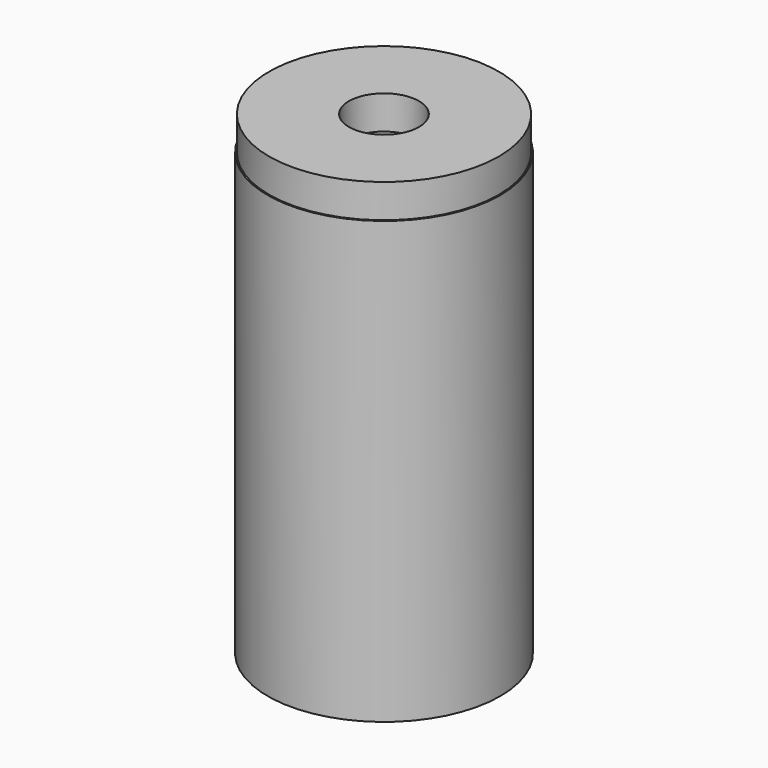
from build123d import *

# Parameters (mm, degrees)
F0_R     = 20.5
F1_DEPTH = 6
F2_R     = 20.75
F2_R_2   = 20.5
F3_DEPTH = 38.66
F5_DEPTH = 40
F6_D     = 12.5


with BuildPart() as f1:
    # F0 (on Top) → F1 (new body)
    with BuildSketch(Plane.XY):
        Circle(F0_R)
    extrude(amount=-F1_DEPTH)

    # F6 (through all)
    with Locations(Plane.XY):
        with Locations((0, 0)):
            Hole(F6_D / 2)


with BuildPart() as f3:
    # F2 (on face) → F3 (new body)
    with BuildSketch(Plane(origin=(0, 0, -6), x_dir=(1, 0, 0), z_dir=(0, 0, -1))):
        Circle(F2_R)
        Circle(F2_R_2, mode=Mode.SUBTRACT)
    extrude(amount=F3_DEPTH)

    # F5 (add): a face of the model
    f5_faces = [f3.faces().sort_by_distance(p)[0] for p in [
        (-20.6913101372, 0, -44.66),
    ]]
    extrude(f5_faces, amount=F5_DEPTH)


solid = Compound([f1.part, f3.part])
